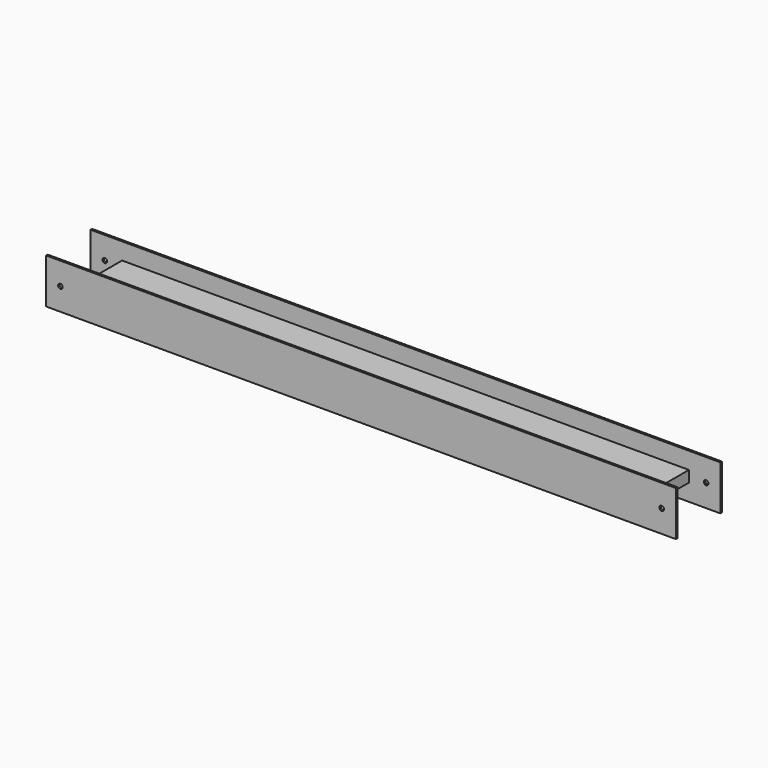
from build123d import *

# Parameters (mm, degrees)
F0_W     = 208.457162
F0_H     = 14.880452
F0_R     = 0.762
F0_W_2   = 187.614396
F0_H_2   = 3.722524
F1_DEPTH = 9.525
F2_DEPTH = 8.89


with BuildPart() as f1:
    # F0 (on Front) → F1 (new body, symmetric)
    with BuildSketch(Plane.XZ):
        Rectangle(F0_W, F0_H)
        with Locations((-99.507612, 0)):
            Circle(F0_R, mode=Mode.SUBTRACT)
        Rectangle(F0_W_2, F0_H_2, mode=Mode.SUBTRACT)
        with Locations((99.507612, 0)):
            Circle(F0_R, mode=Mode.SUBTRACT)
        Rectangle(F0_W_2, F0_H_2)
    extrude(amount=F1_DEPTH, both=True)

    # F0 (on Front) → F2 (cut, symmetric)
    with BuildSketch(Plane.XZ):
        Rectangle(F0_W, F0_H)
        with Locations((-99.507612, 0)):
            Circle(F0_R, mode=Mode.SUBTRACT)
        Rectangle(F0_W_2, F0_H_2, mode=Mode.SUBTRACT)
        with Locations((99.507612, 0)):
            Circle(F0_R, mode=Mode.SUBTRACT)
    extrude(amount=F2_DEPTH, both=True, mode=Mode.SUBTRACT)


solid = f1.part
